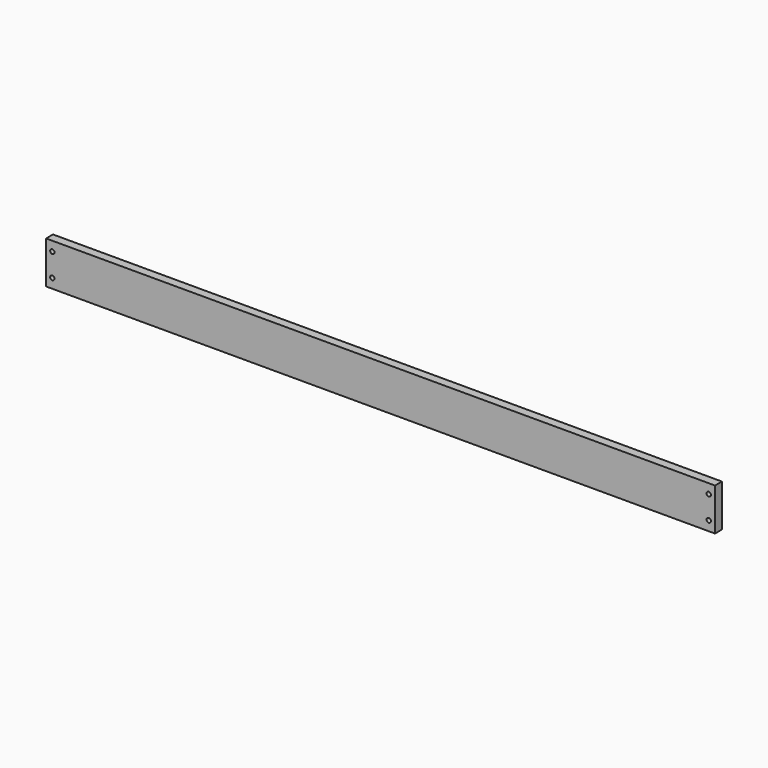
from build123d import *

# Parameters (mm, degrees)
F0_W     = 18
F0_H     = 88
F1_DEPTH = 696
F2_R     = 4.5
F3_DEPTH = 18.001


with BuildPart() as f1:
    # F0 (on Right) → F1 (new body)
    with BuildSketch(Plane.YZ):
        with Locations((9, 0)):
            Rectangle(F0_W, F0_H)
    extrude(amount=F1_DEPTH)

    # F2 (on face) → F3 (cut, through all)
    with BuildSketch(Plane(origin=(0, 18, 0), x_dir=(-1, 0, 0), z_dir=(0, 1, 0))):
        with Locations((-683, 24)):
            Circle(F2_R)
        with Locations((-683, -24)):
            Circle(F2_R)
    extrude(amount=-F3_DEPTH, mode=Mode.SUBTRACT)

    # F4: F1 across plane


with BuildPart() as f1_1:
    add(f1.part)
    add(f1.part.mirror(Plane.YZ))


solid = f1_1.part
